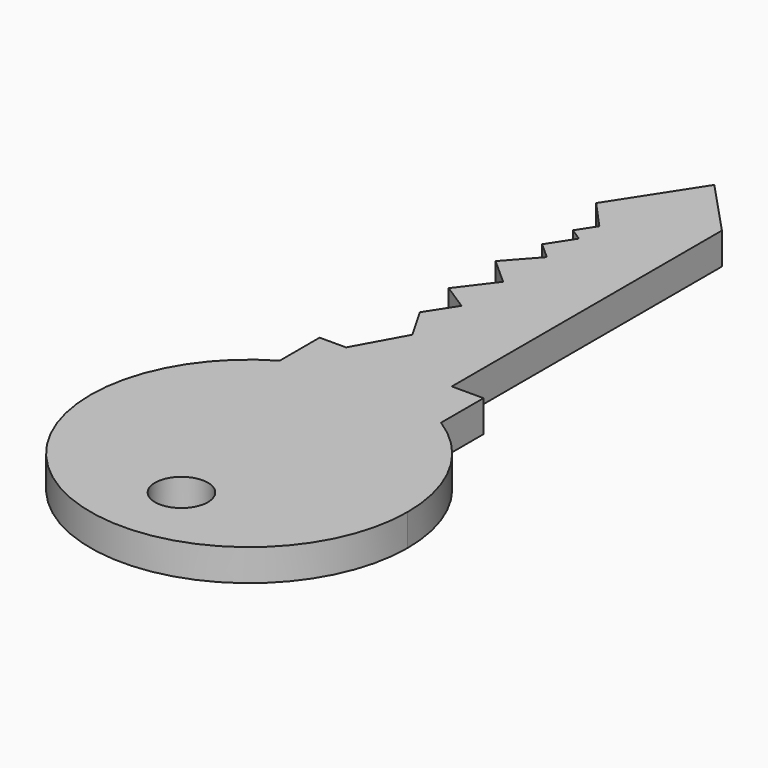
from build123d import *

# Parameters (mm, degrees)
F0_R     = 2
F1_DEPTH = 2.4


with BuildPart() as f1:
    # F0 (on Top) → F1 (new body)
    with BuildSketch(Plane.XY):
        Polygon((-5.955262, 15.422773), (-8, 11.712709), (-4.8, 11.712709), (-4.554067, 40.688071), (-8, 35.361156), (-6, 33.171624), (-6.895736, 31.786946), (-5.955262, 31.178562), (-7.199531, 29.255102), (-5.955262, 28.143108), (-8, 25.855143), (-6, 24.067757), (-8, 21.422476), (-6, 20.128694), (-7.410005, 17.94903), align=None)
        Polygon((-3.2, 11.712709), (0, 11.712709), (0, 37.262041), (-3.2, 40.688071), align=None)
        with BuildLine():
            Line((-10, 11.712709), (-10, 7.936883))
            ThreePointArc((-10, 7.936883), (-7.105829, 9.135688), (-4, 9.544578))
            Line((-4, 9.544578), (-4, 11.712709))
            Line((-4, 11.712709), (-4.8, 11.712709))
            Line((-4.8, 11.712709), (-8, 11.712709))
            Line((-8, 11.712709), (-10, 11.712709))
        make_face()
        with BuildLine():
            ThreePointArc((-4, 9.544578), (-0.66911, 9.073029), (2.4, 7.69544))
            Line((2.4, 7.69544), (2.4, 11.712709))
            Line((2.4, 11.712709), (0, 11.712709))
            Line((0, 11.712709), (-3.2, 11.712709))
            Line((-3.2, 11.712709), (-4, 11.712709))
            Line((-4, 11.712709), (-4, 9.544578))
        make_face()
        with BuildLine():
            ThreePointArc((-10, 7.936883), (-10, -12.847727), (8, -2.455422))
            ThreePointArc((8, -2.455422), (6.50714, 3.341129), (2.4, 7.69544))
            ThreePointArc((2.4, 7.69544), (-0.66911, 9.073029), (-4, 9.544578))
            ThreePointArc((-4, 9.544578), (-7.105829, 9.135688), (-10, 7.936883))
        make_face()
        with Locations((-4, -8.855422)):
            Circle(F0_R, mode=Mode.SUBTRACT)
        Polygon((-4, 41.544578), (-4, 11.712709), (-3.2, 11.712709), (-3.2, 40.688071), align=None)
        Polygon((-4.8, 11.712709), (-4, 11.712709), (-4, 41.544578), (-4.554067, 40.688071), align=None)
    extrude(amount=F1_DEPTH)


solid = f1.part
